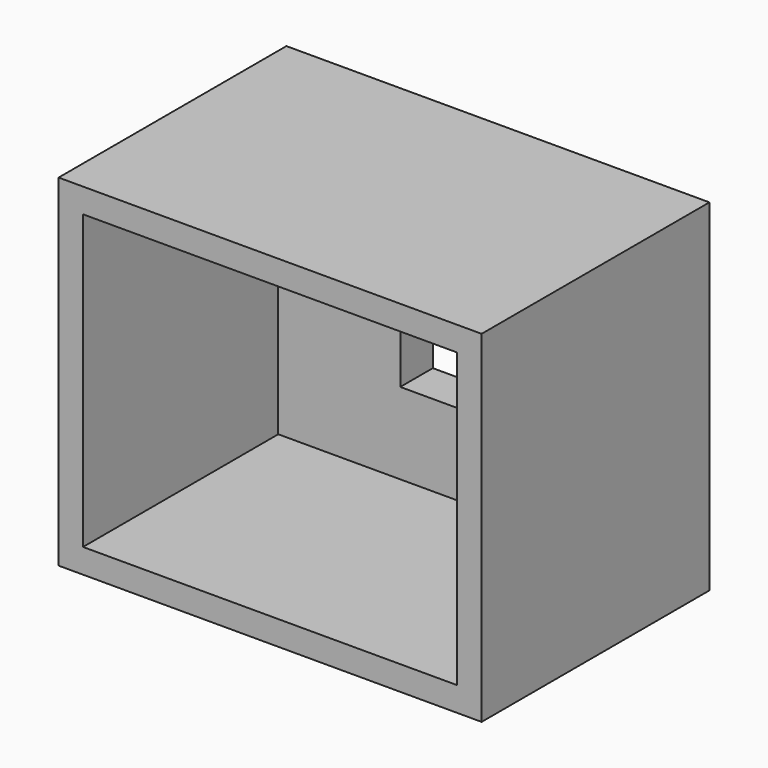
from build123d import *

# Parameters (mm, degrees)
F0_W     = 52
F0_H     = 42
F0_W_2   = 46
F0_H_2   = 36
F0_W_3   = 22
F0_H_3   = 10
F1_DEPTH = 5
F2_DEPTH = 30


with BuildPart() as f1:
    # F0 (on Front) → F1 (new body)
    with BuildSketch(Plane.XZ):
        with Locations((23, 18)):
            Rectangle(F0_W, F0_H)
        with Locations((23, 18)):
            Rectangle(F0_W_2, F0_H_2, mode=Mode.SUBTRACT)
        with Locations((23, 18)):
            Rectangle(F0_W_2, F0_H_2)
        with Locations((26, 15)):
            Rectangle(F0_W_3, F0_H_3, mode=Mode.SUBTRACT)
    extrude(amount=-F1_DEPTH)

    # F0 (on Front) → F2 (join)
    with BuildSketch(Plane.XZ):
        with Locations((23, 18)):
            Rectangle(F0_W, F0_H)
        with Locations((23, 18)):
            Rectangle(F0_W_2, F0_H_2, mode=Mode.SUBTRACT)
    extrude(amount=F2_DEPTH)


solid = f1.part
